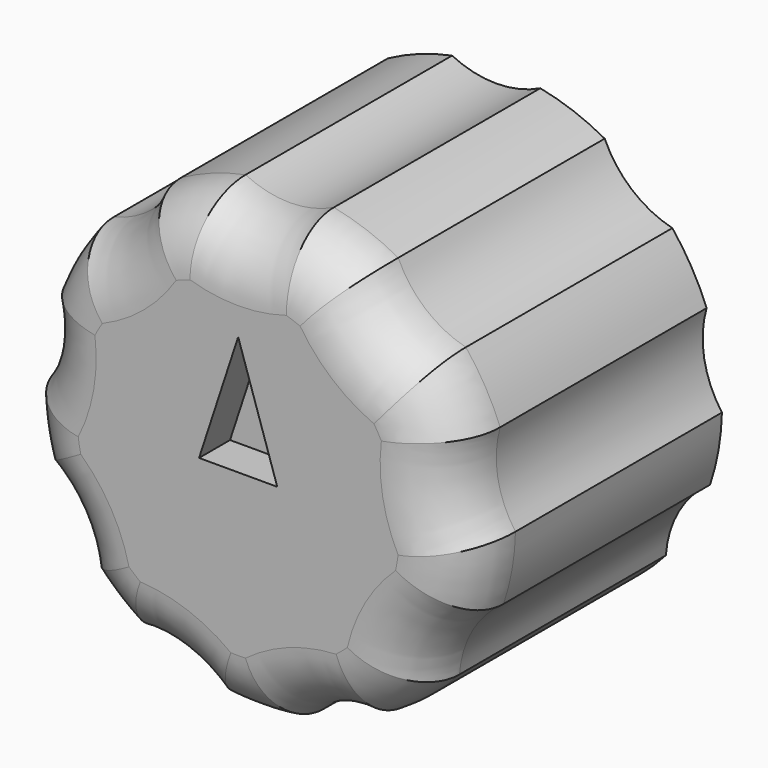
from build123d import *

# Parameters (mm, degrees)
F1_DEPTH = 25
F2_DEPTH = 10
F3_R     = 5
F5_DEPTH = 3


with BuildPart() as f1:
    # F0 (on Front) → F1 (new body)
    with BuildSketch(Plane.XZ):
        with BuildLine():
            ThreePointArc((17.495668, -0.389351), (16.123041, 2.842927), (16.307385, 6.349741))
            ThreePointArc((16.307385, 6.349741), (15.155445, 8.75), (13.652729, 10.947739))
            ThreePointArc((13.652729, 10.947739), (10.523567, 12.541499), (8.410647, 15.346368))
            ThreePointArc((8.410647, 15.346368), (5.985353, 16.444621), (3.421526, 17.16226))
            ThreePointArc((3.421526, 17.16226), (0, 16.371764), (-3.421526, 17.16226))
            ThreePointArc((-3.421526, 17.16226), (-5.985353, 16.444621), (-8.410647, 15.346368))
            ThreePointArc((-8.410647, 15.346368), (-10.523567, 12.541499), (-13.652729, 10.947739))
            ThreePointArc((-13.652729, 10.947739), (-15.155445, 8.75), (-16.307385, 6.349741))
            ThreePointArc((-16.307385, 6.349741), (-16.123041, 2.842927), (-17.495668, -0.389351))
            ThreePointArc((-17.495668, -0.389351), (-17.234136, -3.038843), (-16.573716, -5.618001))
            ThreePointArc((-16.573716, -5.618001), (-14.178364, -8.185882), (-13.15219, -11.544259))
            ThreePointArc((-13.15219, -11.544259), (-11.248783, -13.405778), (-9.085022, -14.957018))
            ThreePointArc((-9.085022, -14.957018), (-5.599473, -15.384426), (-2.654655, -17.29748))
            ThreePointArc((-2.654655, -17.29748), (0, -17.5), (2.654655, -17.29748))
            ThreePointArc((2.654655, -17.29748), (5.599473, -15.384426), (9.085022, -14.957018))
            ThreePointArc((9.085022, -14.957018), (11.248783, -13.405778), (13.15219, -11.544259))
            ThreePointArc((13.15219, -11.544259), (14.178364, -8.185882), (16.573716, -5.618001))
            ThreePointArc((16.573716, -5.618001), (17.234136, -3.038843), (17.495668, -0.389351))
        make_face()
        with BuildLine():
            ThreePointArc((3, 4), (4.472136, 2.236068), (5, 0))
            ThreePointArc((5, 0), (-2.236068, -4.472136), (-3, 4))
            ThreePointArc((-3, 4), (0, 5), (3, 4))
        make_face(mode=Mode.SUBTRACT)
        with BuildLine():
            Line((-3, 4), (3, 4))
            ThreePointArc((3, 4), (0, 5), (-3, 4))
        make_face()
        with BuildLine():
            ThreePointArc((-3, 4), (-2.236068, -4.472136), (5, 0))
            ThreePointArc((5, 0), (4.472136, 2.236068), (3, 4))
            Line((3, 4), (-3, 4))
        make_face()
    extrude(amount=F1_DEPTH)

    # F0 (on Front) → F2 (cut)
    with BuildSketch(Plane.XZ):
        with BuildLine():
            ThreePointArc((-3, 4), (-2.236068, -4.472136), (5, 0))
            ThreePointArc((5, 0), (4.472136, 2.236068), (3, 4))
            Line((3, 4), (-3, 4))
        make_face()
    extrude(amount=F2_DEPTH, mode=Mode.SUBTRACT)

    # F3
    f3_edges = [f1.edges().sort_by_distance(p)[0] for p in [
        (-5.599473, -25, -15.384426),
        (0, -25, -17.5),
        (5.599473, -25, -15.384426),
        (11.248783, -25, -13.405778),
        (14.178364, -25, -8.185882),
        (17.234136, -25, -3.038843),
        (16.123041, -25, 2.842927),
        (15.155445, -25, 8.75),
        (10.523567, -25, 12.541499),
        (5.985353, -25, 16.444621),
        (0, -25, 16.371764),
        (-5.985353, -25, 16.444621),
        (-10.523567, -25, 12.541499),
        (-15.155445, -25, 8.75),
        (-16.123041, -25, 2.842927),
        (-17.234136, -25, -3.038843),
        (-14.178364, -25, -8.185882),
        (-11.248783, -25, -13.405778),
    ]]
    fillet(f3_edges, radius=F3_R)

    # F4 (on face) → F5 (cut)
    with BuildSketch(Plane.XZ.offset(25)):
        Polygon((3.03, 0), (0, 9.24), (0, 0), align=None)
        Polygon((0, 0), (0, 9.24), (-3.03, 0), align=None)
    extrude(amount=-F5_DEPTH, mode=Mode.SUBTRACT)


solid = f1.part
